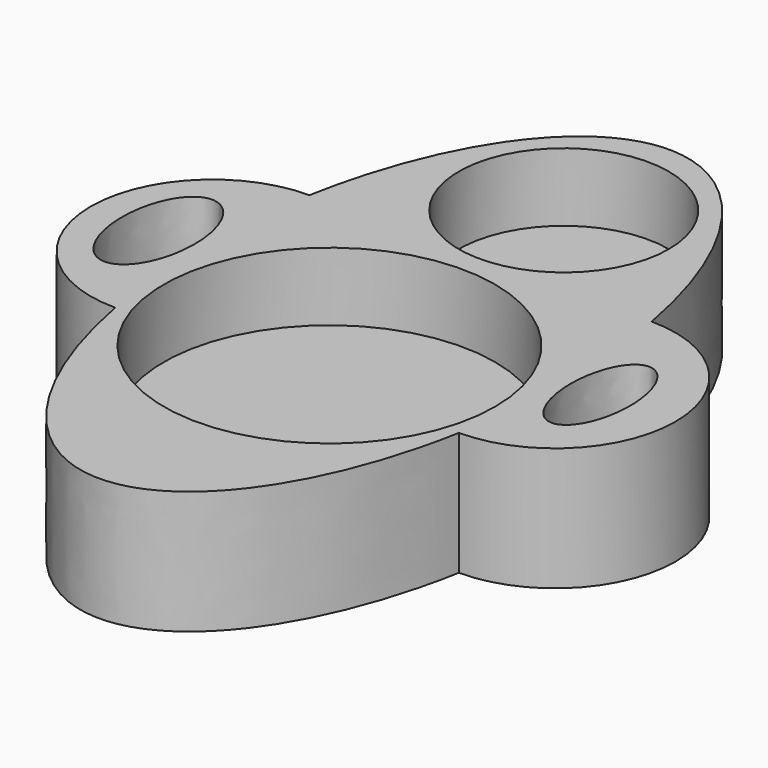
from build123d import *

# Parameters (mm, degrees)
F0_R     = 39.52332
F0_R_2   = 25.073215
F1_DEPTH = 29.4
F2_DEPTH = 13.1


with BuildPart() as f1:
    # F0 (on Top) → F1 (new body)
    with BuildSketch(Plane.XY):
        with BuildLine():
            add(Edge.make_bspline(
                [(-40.837481, 28.753623), (-46.170077, -0.311493), (-40.735415, -29.303966)],
                knots=[4.367348, 4.367348, 4.367348, 5.064317, 5.064317, 5.064317], degree=2, weights=[1, 0.939891, 1]))
            add(Edge.make_bspline(
                [(-40.735415, -29.303966), (-30.293118, -85.010841), (0, -85.010841)],
                knots=[5.064317, 5.064317, 5.064317, 6.283185, 6.283185, 6.283185], degree=2, weights=[1, 0.819972, 1]))
            add(Edge.make_bspline(
                [(0, -85.010841), (30.515932, -85.010841), (40.837481, -28.753623)],
                knots=[0, 0, 0, 1.225756, 1.225756, 1.225756], degree=2, weights=[1, 0.817996, 1]))
            add(Edge.make_bspline(
                [(40.837481, -28.753623), (46.112927, 0), (40.837481, 28.753623)],
                knots=[1.225756, 1.225756, 1.225756, 1.915837, 1.915837, 1.915837], degree=2, weights=[1, 0.941062, 1]))
            add(Edge.make_bspline(
                [(40.837481, 28.753623), (0, 251.336785), (-40.837481, 28.753623)],
                knots=[1.915837, 1.915837, 1.915837, 4.367348, 4.367348, 4.367348], degree=2, weights=[1, 0.338235, 1]))
        make_face()
        with Locations((0, -16.317906)):
            Circle(F0_R, mode=Mode.SUBTRACT)
        with Locations((0, 53.581182)):
            Circle(F0_R_2, mode=Mode.SUBTRACT)
        with BuildLine():
            ThreePointArc((-40.837481, 28.753623), (-69.815247, -0.326204), (-40.735415, -29.303966))
            add(Edge.make_bspline(
                [(-40.837481, 28.753623), (-46.170077, -0.311493), (-40.735415, -29.303966)],
                knots=[4.367348, 4.367348, 4.367348, 5.064317, 5.064317, 5.064317], degree=2, weights=[1, 0.939891, 1]))
        make_face()
        with BuildLine():
            add(Edge.make_bspline(
                [(-53.886287, 16.032058), (-68.961304, 16.032058), (-61.423796, -8.016029), (-53.886287, -32.064117), (-46.348778, -8.016029), (-38.811269, 16.032058), (-53.886287, 16.032058)],
                knots=[0, 0, 0, 2.094395, 2.094395, 4.18879, 4.18879, 6.283185, 6.283185, 6.283185], degree=2, weights=[1, 0.5, 1, 0.5, 1, 0.5, 1]))
        make_face(mode=Mode.SUBTRACT)
        with BuildLine():
            add(Edge.make_bspline(
                [(40.837481, -28.753623), (46.112927, 0), (40.837481, 28.753623)],
                knots=[1.225756, 1.225756, 1.225756, 1.915837, 1.915837, 1.915837], degree=2, weights=[1, 0.941062, 1]))
            ThreePointArc((40.837481, -28.753623), (69.540121, 0), (40.837481, 28.753623))
        make_face()
        with BuildLine():
            add(Edge.make_bspline(
                [(51.818211, 14.244223), (39.493133, 14.244223), (45.655672, -7.534868), (51.818211, -29.31396), (57.98075, -7.534868), (64.143288, 14.244223), (51.818211, 14.244223)],
                knots=[0, 0, 0, 2.094395, 2.094395, 4.18879, 4.18879, 6.283185, 6.283185, 6.283185], degree=2, weights=[1, 0.5, 1, 0.5, 1, 0.5, 1]))
        make_face(mode=Mode.SUBTRACT)
    extrude(amount=F1_DEPTH)

    # F0 (on Top) → F2 (join)
    with BuildSketch(Plane.XY):
        with BuildLine():
            add(Edge.make_bspline(
                [(-40.837481, 28.753623), (-46.170077, -0.311493), (-40.735415, -29.303966)],
                knots=[4.367348, 4.367348, 4.367348, 5.064317, 5.064317, 5.064317], degree=2, weights=[1, 0.939891, 1]))
            add(Edge.make_bspline(
                [(-40.735415, -29.303966), (-30.293118, -85.010841), (0, -85.010841)],
                knots=[5.064317, 5.064317, 5.064317, 6.283185, 6.283185, 6.283185], degree=2, weights=[1, 0.819972, 1]))
            add(Edge.make_bspline(
                [(0, -85.010841), (30.515932, -85.010841), (40.837481, -28.753623)],
                knots=[0, 0, 0, 1.225756, 1.225756, 1.225756], degree=2, weights=[1, 0.817996, 1]))
            add(Edge.make_bspline(
                [(40.837481, -28.753623), (46.112927, 0), (40.837481, 28.753623)],
                knots=[1.225756, 1.225756, 1.225756, 1.915837, 1.915837, 1.915837], degree=2, weights=[1, 0.941062, 1]))
            add(Edge.make_bspline(
                [(40.837481, 28.753623), (0, 251.336785), (-40.837481, 28.753623)],
                knots=[1.915837, 1.915837, 1.915837, 4.367348, 4.367348, 4.367348], degree=2, weights=[1, 0.338235, 1]))
        make_face()
        with Locations((0, -16.317906)):
            Circle(F0_R, mode=Mode.SUBTRACT)
        with Locations((0, 53.581182)):
            Circle(F0_R_2, mode=Mode.SUBTRACT)
        with BuildLine():
            ThreePointArc((-40.837481, 28.753623), (-69.815247, -0.326204), (-40.735415, -29.303966))
            add(Edge.make_bspline(
                [(-40.837481, 28.753623), (-46.170077, -0.311493), (-40.735415, -29.303966)],
                knots=[4.367348, 4.367348, 4.367348, 5.064317, 5.064317, 5.064317], degree=2, weights=[1, 0.939891, 1]))
        make_face()
        with BuildLine():
            add(Edge.make_bspline(
                [(-53.886287, 16.032058), (-68.961304, 16.032058), (-61.423796, -8.016029), (-53.886287, -32.064117), (-46.348778, -8.016029), (-38.811269, 16.032058), (-53.886287, 16.032058)],
                knots=[0, 0, 0, 2.094395, 2.094395, 4.18879, 4.18879, 6.283185, 6.283185, 6.283185], degree=2, weights=[1, 0.5, 1, 0.5, 1, 0.5, 1]))
        make_face(mode=Mode.SUBTRACT)
        with BuildLine():
            add(Edge.make_bspline(
                [(40.837481, -28.753623), (46.112927, 0), (40.837481, 28.753623)],
                knots=[1.225756, 1.225756, 1.225756, 1.915837, 1.915837, 1.915837], degree=2, weights=[1, 0.941062, 1]))
            ThreePointArc((40.837481, -28.753623), (69.540121, 0), (40.837481, 28.753623))
        make_face()
        with BuildLine():
            add(Edge.make_bspline(
                [(51.818211, 14.244223), (39.493133, 14.244223), (45.655672, -7.534868), (51.818211, -29.31396), (57.98075, -7.534868), (64.143288, 14.244223), (51.818211, 14.244223)],
                knots=[0, 0, 0, 2.094395, 2.094395, 4.18879, 4.18879, 6.283185, 6.283185, 6.283185], degree=2, weights=[1, 0.5, 1, 0.5, 1, 0.5, 1]))
        make_face(mode=Mode.SUBTRACT)
        with BuildLine():
            add(Edge.make_bspline(
                [(51.818211, 14.244223), (39.493133, 14.244223), (45.655672, -7.534868), (51.818211, -29.31396), (57.98075, -7.534868), (64.143288, 14.244223), (51.818211, 14.244223)],
                knots=[0, 0, 0, 2.094395, 2.094395, 4.18879, 4.18879, 6.283185, 6.283185, 6.283185], degree=2, weights=[1, 0.5, 1, 0.5, 1, 0.5, 1]))
        make_face()
        with Locations((0, -16.317906)):
            Circle(F0_R)
        with Locations((0, 53.581182)):
            Circle(F0_R_2)
        with BuildLine():
            add(Edge.make_bspline(
                [(-53.886287, 16.032058), (-68.961304, 16.032058), (-61.423796, -8.016029), (-53.886287, -32.064117), (-46.348778, -8.016029), (-38.811269, 16.032058), (-53.886287, 16.032058)],
                knots=[0, 0, 0, 2.094395, 2.094395, 4.18879, 4.18879, 6.283185, 6.283185, 6.283185], degree=2, weights=[1, 0.5, 1, 0.5, 1, 0.5, 1]))
        make_face()
    extrude(amount=F2_DEPTH)


solid = f1.part
